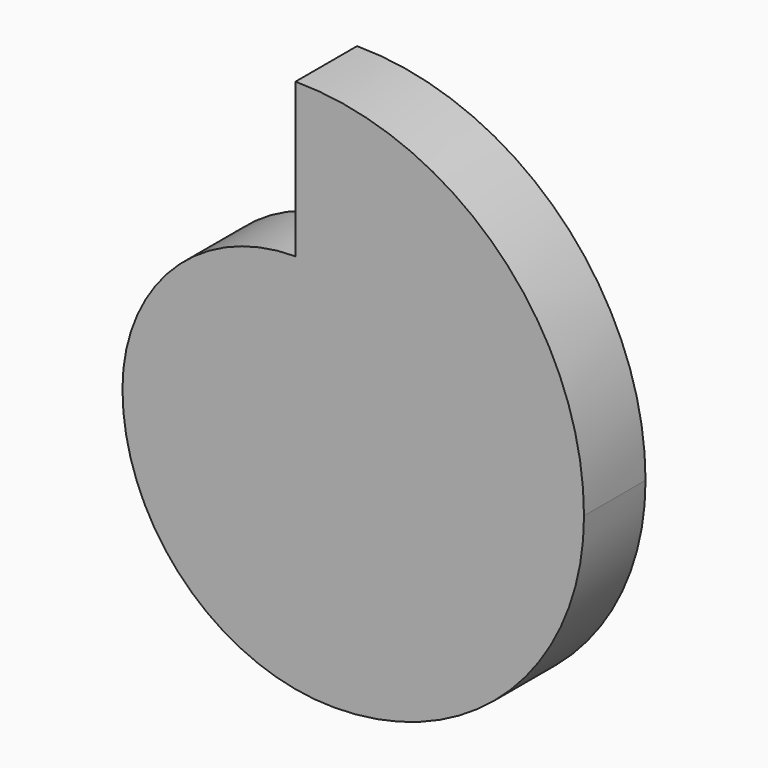
from build123d import *

# Parameters (mm, degrees)
F0_W     = 12.7
F0_H     = 12.7
F1_DEPTH = 25.4


with BuildPart() as f1:
    # F0 (on Front) → F1 (new body)
    with BuildSketch(Plane.XZ):
        with BuildLine():
            Line((-19.05, 88.9), (-19.05, 38.1))
            ThreePointArc((-19.05, 38.1), (-59.461153, 21.361153), (-76.2, -19.05))
            ThreePointArc((-76.2, -19.05), (-55.741409, -68.441409), (-6.35, -88.9))
            ThreePointArc((-6.35, -88.9), (52.021665, -64.721665), (76.2, -6.35))
            ThreePointArc((76.2, -6.35), (48.301921, 61.001921), (-19.05, 88.9))
        make_face()
        with Locations((-12.7, -12.7)):
            Rectangle(F0_W, F0_H, mode=Mode.SUBTRACT)
        with Locations((-12.7, -12.7)):
            Rectangle(F0_W, F0_H)
    extrude(amount=F1_DEPTH)


solid = f1.part
